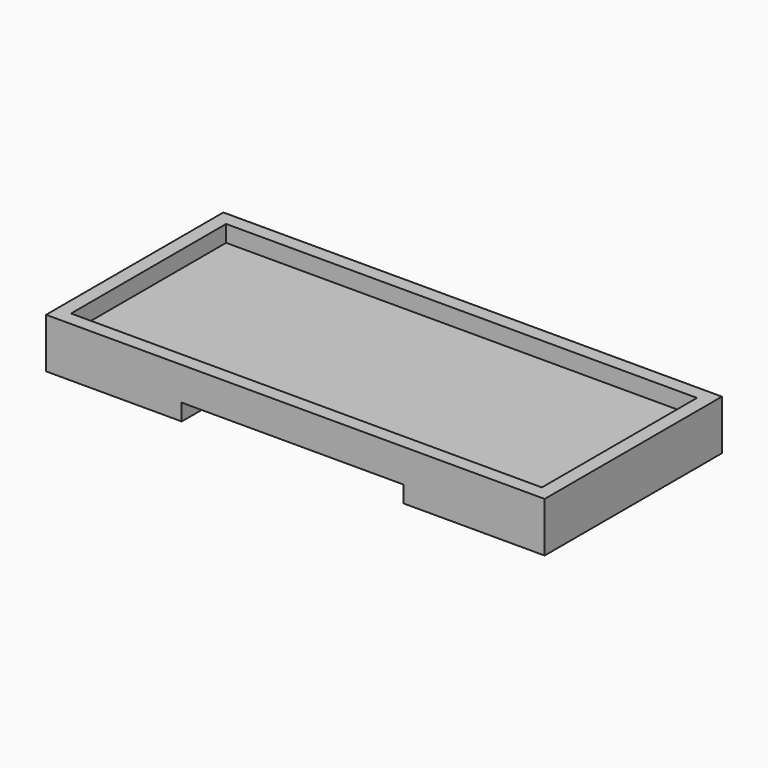
from build123d import *

# Parameters (mm, degrees)
F1_DEPTH  = 40
F2_W      = 84
F2_H      = 36
F3_DEPTH  = 3
F4_T      = -2.5
F5_DEPTH  = 3
F7_DEPTH  = 3
F6_W      = 40
F6_H      = 40
F8_DEPTH  = 3
F9_DEPTH  = 0.2
F10_DEPTH = 0.5


with BuildPart() as f1:
    # F0 (on Front) → F1 (new body)
    with BuildSketch(Plane.XZ):
        Polygon((45, -3), (45, 3), (-45, 3), (-45, -3), (-20.5147061497, -3), (-20.5147061497, 0), (19.4852938503, 0), (19.4852938503, -3), align=None)
    extrude(amount=F1_DEPTH)

    # F2 (on face) → F3 (join)
    with BuildSketch(Plane.XY.offset(3)):
        with Locations((0.0693308115, -20.004203001)):
            Rectangle(F2_W, F2_H)
    extrude(amount=-F3_DEPTH)

    # F4
    f4_openings = [f1.faces().sort_by_distance(p)[0] for p in [
        (0, -20, 3),
    ]]
    offset(amount=F4_T, openings=f4_openings, kind=Kind.INTERSECTION)

    # F5 (cut): a face of the model
    f5_faces = [f1.faces().sort_by_distance(p)[0] for p in [
        (-0.5147061497, -20, 2.5),
    ]]
    extrude(f5_faces, amount=-F5_DEPTH, mode=Mode.SUBTRACT)

    # F7 (add): faces of the model
    f7_faces = [f1.faces().sort_by_distance(p)[0] for p in [
        (-32.7573530748, -20, -3),
        (32.2426469252, -20, -3),
    ]]
    extrude(f7_faces, amount=F7_DEPTH)

    # F6 (on Top) → F8 (join)
    with BuildSketch(Plane.XY):
        with Locations((-0.3256309032, -20)):
            Rectangle(F6_W, F6_H)
    extrude(amount=-F8_DEPTH)

    # F9 (add): a face of the model
    f9_faces = [f1.faces().sort_by_distance(p)[0] for p in [
        (-20.3256309032, -20, -1.5),
    ]]
    extrude(f9_faces, amount=F9_DEPTH)

    # F10 (add): faces of the model
    f10_faces = [f1.faces().sort_by_distance(p)[0] for p in [
        (-31.5128154516, -20, -0.5),
        (31.0871845484, -20, -0.5),
    ]]
    extrude(f10_faces, amount=F10_DEPTH)


solid = f1.part
